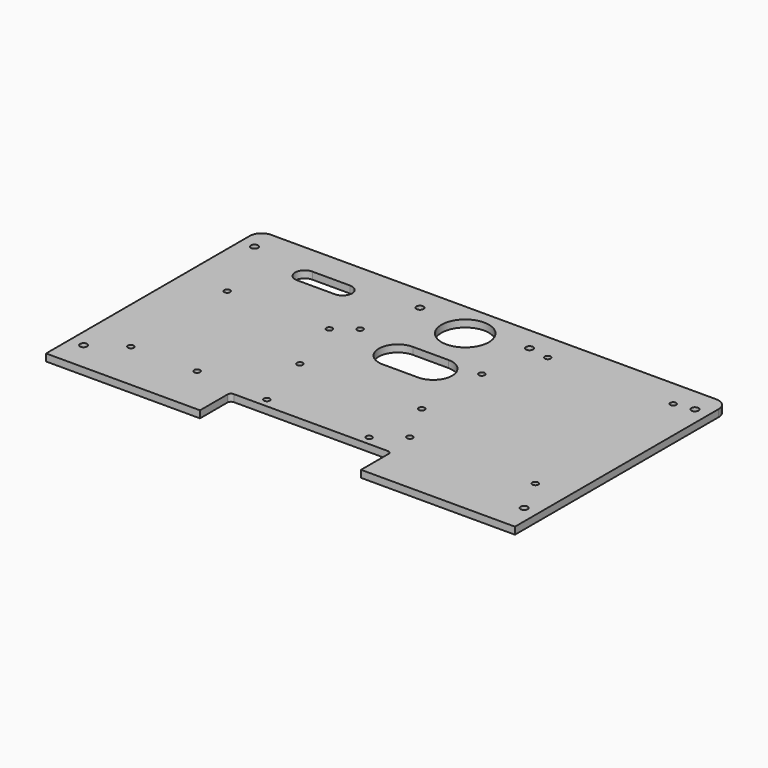
from build123d import *

# Parameters (mm, degrees)
SKETCH_W      = 198
SKETCH_H      = 112.5
PAD_DEPTH     = 3
FILLET_R      = 5
SKETCH001_R   = 1.5
SKETCH001_R_2 = 10
SKETCH001_R_3 = 1.25
POCKET_DEPTH  = 3.001


with BuildPart() as part:
    # Sketch → Pad (new body)
    with BuildSketch(Plane.XY):
        Rectangle(SKETCH_W, SKETCH_H)
    extrude(amount=PAD_DEPTH)

    # Fillet
    fillet_edges = [part.edges().sort_by_distance(p)[0] for p in [
        (-99, 56.25, 1.5),
        (99, 56.25, 1.5),
    ]]
    fillet(fillet_edges, radius=FILLET_R)

    # Sketch001 (on Face5 of Fillet) → Pocket (cut, through all)
    with BuildSketch(Plane.XY.offset(3)):
        with Locations((-93, 46.25)):
            Circle(SKETCH001_R)
        with Locations((-93, -43.92)):
            Circle(SKETCH001_R)
        with Locations((93, 46.25)):
            Circle(SKETCH001_R)
        with Locations((93, -43.92)):
            Circle(SKETCH001_R)
        with Locations((-23.15, 46.25)):
            Circle(SKETCH001_R)
        with Locations((23.15, 46.25)):
            Circle(SKETCH001_R)
        with Locations((0, 41.25)):
            Circle(SKETCH001_R_2)
        with Locations((-21.59, -36.5)):
            Circle(SKETCH001_R_3)
        with Locations((21.59, -36.5)):
            Circle(SKETCH001_R_3)
        with Locations((-29, 22)):
            Circle(SKETCH001_R_3)
        with Locations((-29, -9.75)):
            Circle(SKETCH001_R_3)
        with Locations((22.43, -9.75)):
            Circle(SKETCH001_R_3)
        with Locations((22.43, 22)):
            Circle(SKETCH001_R_3)
        with Locations((-80.18, 15.8)):
            Circle(SKETCH001_R_3)
        with Locations((-37, 15.8)):
            Circle(SKETCH001_R_3)
        with Locations((-80.18, -35)):
            Circle(SKETCH001_R_3)
        with Locations((32, 44.8)):
            Circle(SKETCH001_R_3)
        with Locations((85, 44.8)):
            Circle(SKETCH001_R_3)
        with Locations((32, -28)):
            Circle(SKETCH001_R_3)
        with Locations((85, -28)):
            Circle(SKETCH001_R_3)
        with Locations((-52.24, -35)):
            Circle(SKETCH001_R_3)
        with BuildLine():
            Line((-32.5, -40.25), (32.5, -40.25))
            ThreePointArc((34, -41.75), (33.56066, -40.68934), (32.5, -40.25))
            Line((34, -41.75), (34, -56.25))
            Line((34, -56.25), (-34, -56.25))
            Line((-34, -56.25), (-34, -41.75))
            ThreePointArc((-32.5, -40.25), (-33.56066, -40.68934), (-34, -41.75))
        make_face()
        with BuildLine():
            ThreePointArc((-67, 44.25), (-71, 40.25), (-67, 36.25))
            Line((-67, 36.25), (-51, 36.25))
            ThreePointArc((-51, 36.25), (-47, 40.25), (-51, 44.25))
            Line((-67, 44.25), (-51, 44.25))
        make_face()
        with BuildLine():
            ThreePointArc((-7.5, 23), (-15.5, 15), (-7.5, 7))
            Line((-7.5, 7), (7.5, 7))
            ThreePointArc((7.5, 7), (15.5, 15), (7.5, 23))
            Line((-7.5, 23), (7.5, 23))
        make_face()
    extrude(amount=-POCKET_DEPTH, mode=Mode.SUBTRACT)


solid = part.part
